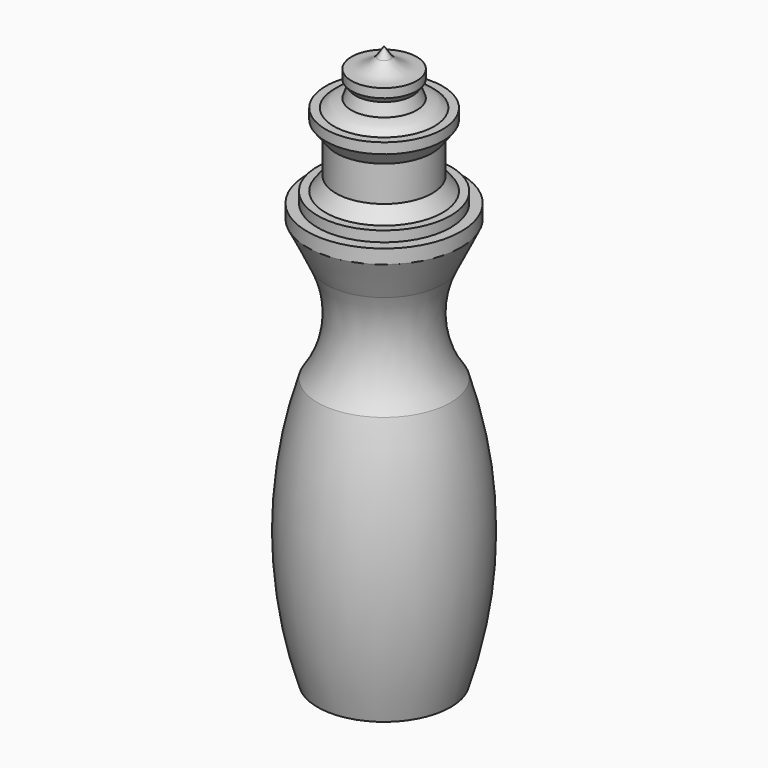
from build123d import *


with BuildPart() as f1:
    # F0 (on Front) → F1 (revolve)
    with BuildSketch(Plane.XZ):
        with BuildLine():
            Line((4.654798, -4.137598), (4.654798, -2.856913))
            ThreePointArc((4.654798, -2.856913), (2.609525, -2.551757), (0.91834, -1.361734))
            Line((0.91834, -1.361734), (0, 0))
            Line((0, 0), (0, -80))
            Line((0, -80), (9.5, -80))
            ThreePointArc((9.5, -80), (12.5, -60.861897), (9.5, -41.723793))
            ThreePointArc((9.5, -41.723793), (6.900655, -34.682602), (8.278434, -27.304479))
            Line((8.278434, -27.304479), (11, -21.723793))
            Line((11, -21.723793), (11, -19.723793))
            Line((11, -19.723793), (9.5, -19.723793))
            Line((9.5, -19.723793), (9.5, -18.223793))
            Line((9.5, -18.223793), (8.349082, -18.223793))
            Line((8.349082, -18.223793), (6.876753, -16.269946))
            Line((6.876753, -16.269946), (6.876753, -11.206022))
            Line((6.876753, -11.206022), (8.349082, -9.252175))
            Line((8.349082, -9.252175), (8.349082, -7.752175))
            Line((8.349082, -7.752175), (7.166911, -7.752175))
            ThreePointArc((7.166911, -7.752175), (6.024427, -6.914126), (4.654798, -6.551198))
            Line((4.654798, -6.551198), (4.063713, -4.925712))
            Line((4.063713, -4.925712), (4.654798, -4.137598))
        make_face()
    revolve(axis=Axis((0, 0, -40), (0, 0, 1)))


solid = f1.part
